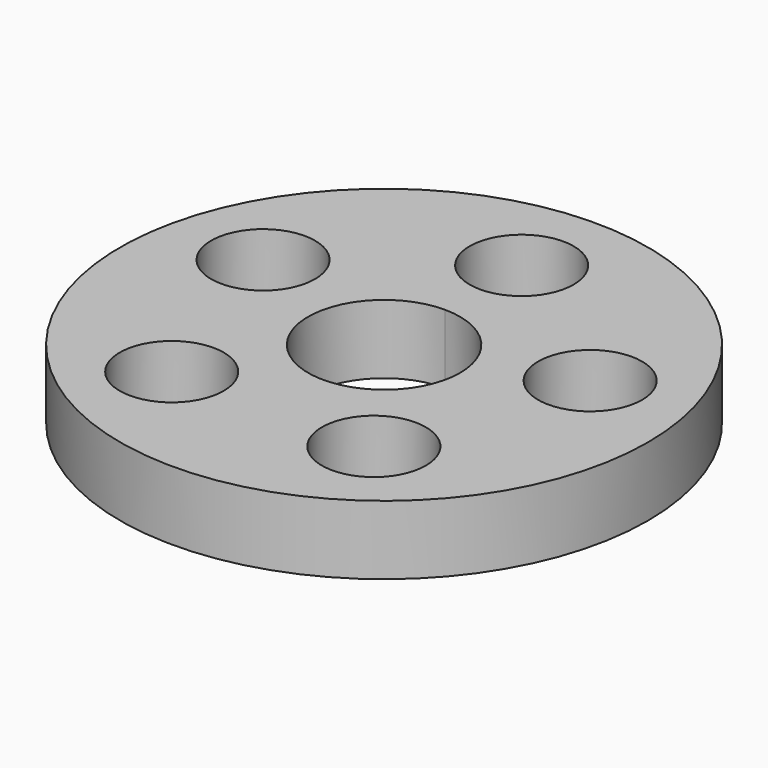
from build123d import *

# Parameters (mm, degrees)
F0_R     = 13.97
F0_R_2   = 2.7515
F1_DEPTH = 3.65


with BuildPart() as f1:
    # F0 (on Top) → F1 (new body)
    with BuildSketch(Plane.XY):
        Circle(F0_R)
        with Locations((-5.349434, -7.362864)):
            Circle(F0_R_2, mode=Mode.SUBTRACT)
        with BuildLine():
            ThreePointArc((0, 4.0215), (2.84363, 2.84363), (4.0215, 0))
            ThreePointArc((4.0215, 0), (-2.84363, -2.84363), (0, 4.0215))
        make_face(mode=Mode.SUBTRACT)
        with Locations((5.349434, -7.362864)):
            Circle(F0_R_2, mode=Mode.SUBTRACT)
        with Locations((-8.655565, 2.812364)):
            Circle(F0_R_2, mode=Mode.SUBTRACT)
        with BuildLine():
            ThreePointArc((2.7515, 9.101), (1.945604, 7.155396), (0, 6.3495))
            ThreePointArc((0, 6.3495), (-1.945604, 11.046604), (2.7515, 9.101))
        make_face(mode=Mode.SUBTRACT)
        with Locations((8.655565, 2.812364)):
            Circle(F0_R_2, mode=Mode.SUBTRACT)
    extrude(amount=F1_DEPTH)


solid = f1.part
